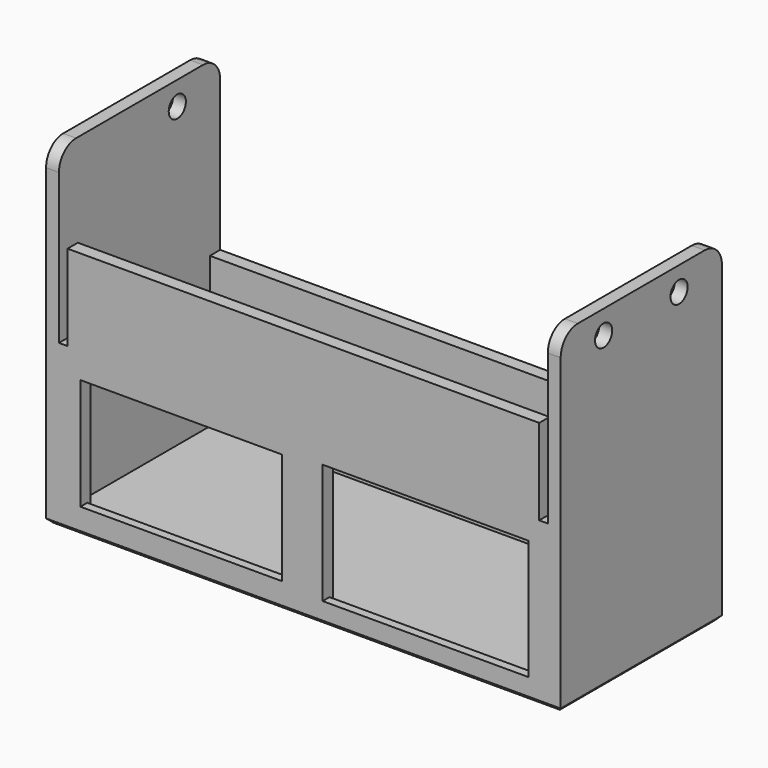
from build123d import *

# Parameters (mm, degrees)
F2_R      = 2.5
F3_DEPTH  = 3
F4_W      = 3
F4_H      = 35
F4_H_2    = 3
F4_W_2    = 41
F5_DEPTH  = 114
F6_R      = 2.5
F7_DEPTH  = 3
F8_W      = 110
F8_H      = 20
F9_DEPTH  = 3
F10_W     = 47
F10_H     = 26
F10_W_2   = 48
F10_H_2   = 28
F11_DEPTH = 3
F12_SIZE  = 1
F14_W     = 48
F14_H     = 2
F14_W_2   = 47
F15_DEPTH = 1


with BuildPart() as f3:
    # F2 (on Right) → F3 (new body)
    with BuildSketch(Plane.YZ):
        with BuildLine():
            ThreePointArc((22.5, 35), (21.0355339059, 38.5355339059), (17.5, 40))
            Line((17.5, 40), (-19.5, 40))
            ThreePointArc((-19.5, 40), (-23.0355339059, 38.5355339059), (-24.5, 35))
            Line((-24.5, 35), (-24.5, -38))
            Line((-24.5, -38), (22.5, -38))
            Line((22.5, -38), (22.5, 35))
        make_face()
        with Locations((-12, 34.5)):
            Circle(F2_R, mode=Mode.SUBTRACT)
        with Locations((10, 34.5)):
            Circle(F2_R, mode=Mode.SUBTRACT)
    extrude(amount=F3_DEPTH)

    # F4 (on Right) → F5 (join)
    with BuildSketch(Plane.YZ):
        with Locations((-23, -17.5)):
            Rectangle(F4_W, F4_H)
        with Locations((21, -36.5)):
            Rectangle(F4_W, F4_H_2)
        with Locations((21, -17.5)):
            Rectangle(F4_W, F4_H)
        with Locations((-1, -36.5)):
            Rectangle(F4_W_2, F4_H_2)
        with Locations((-23, -36.5)):
            Rectangle(F4_W, F4_H_2)
    extrude(amount=-F5_DEPTH)

    # F6 (on face) → F7 (join)
    with BuildSketch(Plane(origin=(-114, 0, 0), x_dir=(0, -1, 0), z_dir=(-1, 0, 0))):
        with BuildLine():
            ThreePointArc((24.5, 35), (23.0355339059, 38.5355339059), (19.5, 40))
            Line((19.5, 40), (-17.5, 40))
            ThreePointArc((-17.5, 40), (-21.0355339059, 38.5355339059), (-22.5, 35))
            Line((-22.5, 35), (-22.5, -38))
            Line((-22.5, -38), (24.5, -38))
            Line((24.5, -38), (24.5, 35))
        make_face()
        with Locations((-10, 34.5)):
            Circle(F6_R, mode=Mode.SUBTRACT)
    extrude(amount=F7_DEPTH)

    # F8 (on face) → F9 (join)
    with BuildSketch(Plane.XZ.offset(24.5)):
        with Locations((-57, 10)):
            Rectangle(F8_W, F8_H)
    extrude(amount=-F9_DEPTH)

    # F10 (on face) → F11 (cut, through all)
    with BuildSketch(Plane.XZ.offset(24.5)):
        with Locations((-85.5, -19)):
            Rectangle(F10_W, F10_H)
        with Locations((-28.5, -19)):
            Rectangle(F10_W_2, F10_H_2)
    extrude(amount=-F11_DEPTH, mode=Mode.SUBTRACT)

    # F12
    f12_edges = [f3.edges().sort_by_distance(p)[0] for p in [
        (-57, -24.5, -38),
        (3, -1, -38),
        (-57, 22.5, -38),
        (-117, -1, -38),
    ]]
    chamfer(f12_edges, length=F12_SIZE)

    # F14 (on face) → F15 (cut)
    with BuildSketch(Plane(origin=(0, -21.5, 0), x_dir=(-1, 0, 0), z_dir=(0, 1, 0))):
        with Locations((28.5, -34)):
            Rectangle(F14_W, F14_H)
        with Locations((85.5, -33)):
            Rectangle(F14_W_2, F14_H)
        with Locations((85.5, -5)):
            Rectangle(F14_W_2, F14_H)
        with Locations((28.5, -4)):
            Rectangle(F14_W, F14_H)
    extrude(amount=-F15_DEPTH, mode=Mode.SUBTRACT)


solid = f3.part
